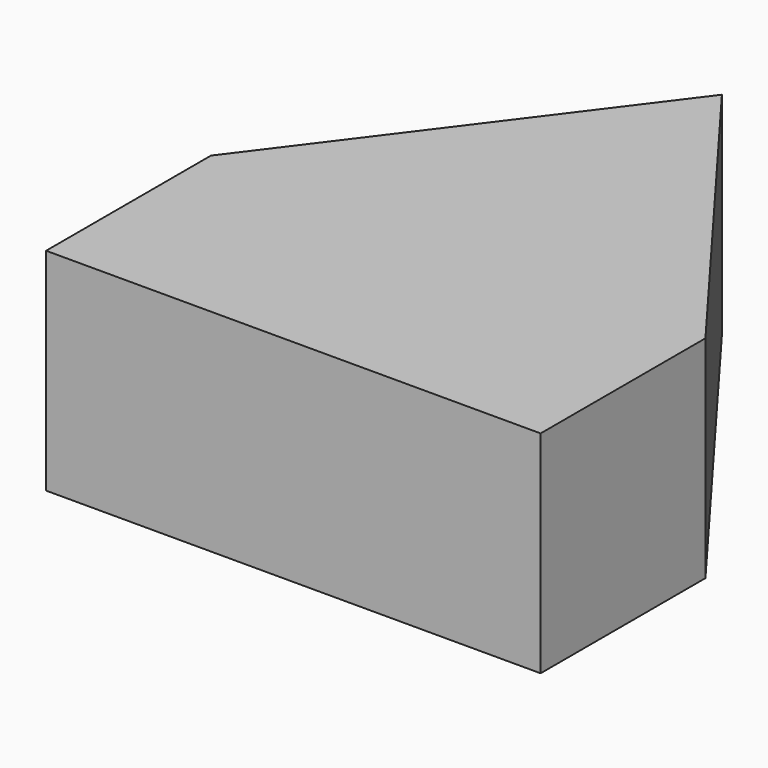
from build123d import *

# Parameters (mm, degrees)
F0_W     = 24
F0_H     = 10
F1_DEPTH = 10.25


with BuildPart() as f1:
    # F0 (on Top) → F1 (new body)
    with BuildSketch(Plane.XY):
        Polygon((-12, 2.821869), (12, 2.821869), (0, 18.821869), align=None)
        with Locations((0, -2.178131)):
            Rectangle(F0_W, F0_H)
    extrude(amount=F1_DEPTH)


solid = f1.part
